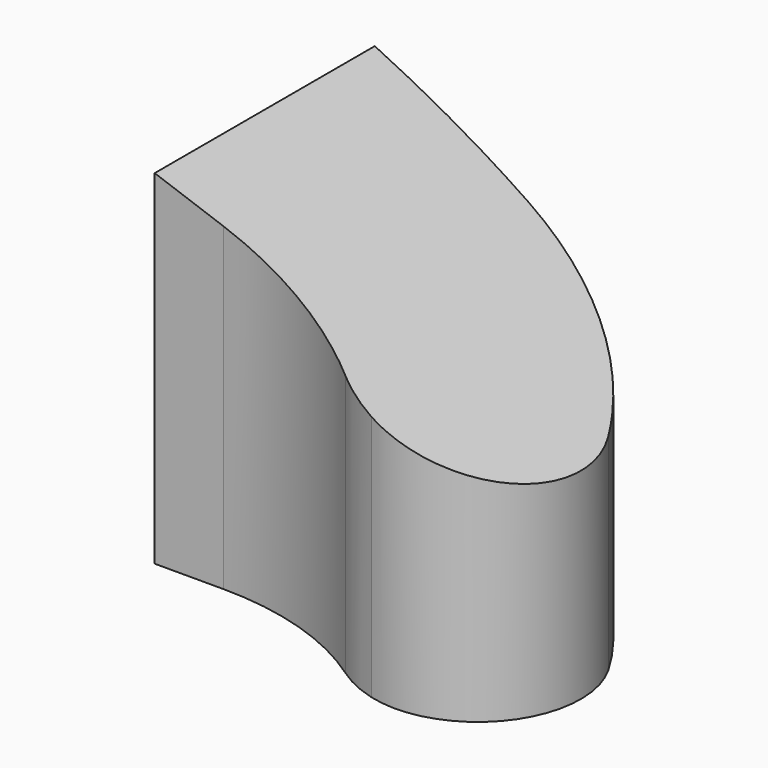
from build123d import *

# Parameters (mm, degrees)
EXTRUDE001_DEPTH                     = 7
EXTRUDE001_ONTO_SKETCH001_ROLL_ANGLE = 90
EXTRUDE_DEPTH                        = 5


with BuildPart() as cut:
    # Sketch001 as drawn → Extrude001 (new)
    with BuildSketch(Plane.XY):
        Polygon((0, 5), (5.9, 2.90716), (5.9, 0), (0, 0), align=None)
    extrude(amount=-EXTRUDE001_DEPTH)


with BuildPart() as cut_1:
    # Extrude001 onto Sketch001 roll: moved
    add(cut.part.rotate(Axis((0, 0, 0), (1, 0, 0)), EXTRUDE001_ONTO_SKETCH001_ROLL_ANGLE))


with BuildPart() as cut_2:
    # Extrude001 onto Sketch001 placement: moved
    add(cut_1.part)


with BuildPart() as lug:
    # Sketch → Extrude (new body)
    with BuildSketch(Plane.XY):
        with BuildLine():
            ThreePointArc((2.621085, 4.581518), (1.319775, 4.87896), (0, 5.079147))
            Line((0, 5.079147), (0, 1.079147))
            Line((1, 1.079147), (0, 1.079147))
            ThreePointArc((3.37547, 0.330164), (2.245375, 0.887465), (1, 1.079147))
            ThreePointArc((3.37547, 0.330164), (3.660536, 0.165581), (3.96985, 0.053))
            ThreePointArc((3.96985, 0.053), (5.548108, 0.588746), (5.657117, 2.251889))
            ThreePointArc((5.657117, 2.251889), (4.370797, 3.718655), (2.621085, 4.581518))
        make_face()
    extrude(amount=EXTRUDE_DEPTH)


with BuildPart() as common:
    # Common base: copy of Lug
    add(lug.part)

    # Common: intersect cut
    add(cut_2.part, mode=Mode.INTERSECT)


with BuildPart() as common001:
    # Common001 base: copy of Lug
    add(lug.part)

    # Common001: intersect cut
    add(cut_2.part, mode=Mode.INTERSECT)


solid = Compound([common.part, common001.part])
